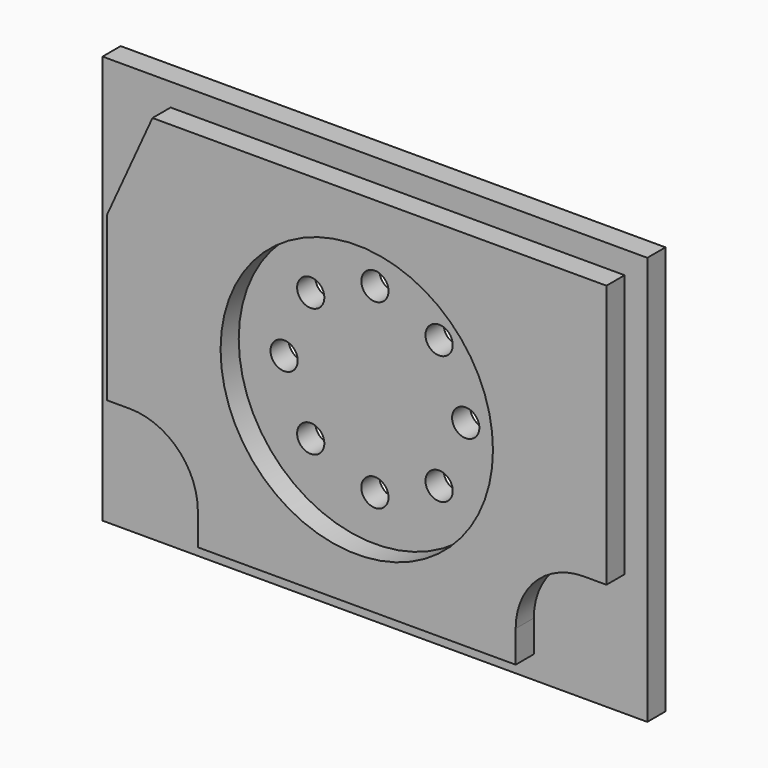
from build123d import *

# Parameters (mm, degrees)
F0_W     = 120
F0_H     = 90
F0_R     = 30
F0_R_2   = 3
F1_DEPTH = 5
F2_DEPTH = 10


with BuildPart() as f1:
    # F0 (on Front) → F1 (new body)
    with BuildSketch(Plane.XZ):
        with Locations((-60, 45)):
            Rectangle(F0_W, F0_H)
        with BuildLine():
            Line((-110, 27), (-115, 27))
            Line((-115, 27), (-115, 63))
            Line((-115, 63), (-105, 85))
            Line((-105, 85), (-5, 85))
            Line((-5, 85), (-5, 27))
            Line((-5, 27), (-10, 27))
            ThreePointArc((-10, 27), (-20.606602, 22.606602), (-25, 12))
            Line((-25, 12), (-25, 5))
            Line((-25, 5), (-95, 5))
            Line((-95, 5), (-95, 12))
            ThreePointArc((-95, 12), (-99.393398, 22.606602), (-110, 27))
        make_face(mode=Mode.SUBTRACT)
        with Locations((-60, 45)):
            Circle(F0_R)
        with Locations((-74.142136, 30.857864)):
            Circle(F0_R_2, mode=Mode.SUBTRACT)
        with Locations((-60, 25)):
            Circle(F0_R_2, mode=Mode.SUBTRACT)
        with Locations((-45.857864, 30.857864)):
            Circle(F0_R_2, mode=Mode.SUBTRACT)
        with Locations((-80, 45)):
            Circle(F0_R_2, mode=Mode.SUBTRACT)
        with Locations((-74.142136, 59.142136)):
            Circle(F0_R_2, mode=Mode.SUBTRACT)
        with Locations((-40, 45)):
            Circle(F0_R_2, mode=Mode.SUBTRACT)
        with Locations((-45.857864, 59.142136)):
            Circle(F0_R_2, mode=Mode.SUBTRACT)
        with Locations((-60, 65)):
            Circle(F0_R_2, mode=Mode.SUBTRACT)
    extrude(amount=F1_DEPTH)


with BuildPart() as f2:
    # F0 (on Front) → F2 (new body)
    with BuildSketch(Plane.XZ):
        with BuildLine():
            Line((-115, 63), (-115, 27))
            Line((-115, 27), (-110, 27))
            ThreePointArc((-110, 27), (-99.393398, 22.606602), (-95, 12))
            Line((-95, 12), (-95, 5))
            Line((-95, 5), (-25, 5))
            Line((-25, 5), (-25, 12))
            ThreePointArc((-25, 12), (-20.606602, 22.606602), (-10, 27))
            Line((-10, 27), (-5, 27))
            Line((-5, 27), (-5, 85))
            Line((-5, 85), (-105, 85))
            Line((-105, 85), (-115, 63))
        make_face()
        with Locations((-60, 45)):
            Circle(F0_R, mode=Mode.SUBTRACT)
    extrude(amount=F2_DEPTH)


solid = Compound([f1.part, f2.part])
